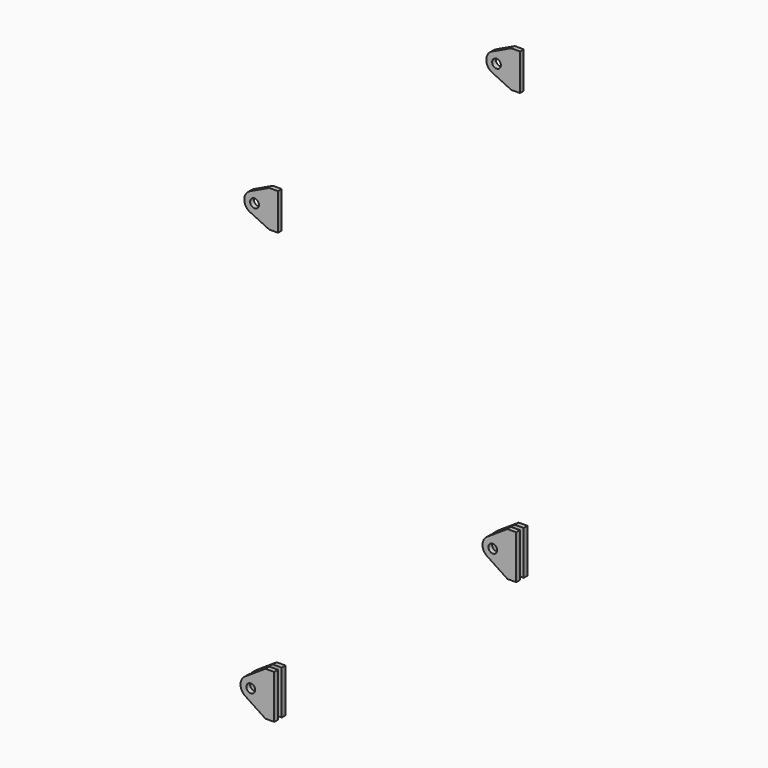
from build123d import *

# Parameters (mm, degrees)
SKETCH008_W      = 150
SKETCH008_H      = 16
EXTRUDE007_DEPTH = 150
SKETCH007_R      = 15
PAD_DEPTH        = 24
SKETCH009_R      = 15
EXTRUDE_DEPTH    = 8


with BuildPart() as extrude007:
    # Sketch008 → Extrude007 (new body)
    with BuildSketch(Plane(origin=(0, 0, 0), x_dir=(1, 0, 0), z_dir=(0, 0, -1))):
        with Locations((975, 0)):
            Rectangle(SKETCH008_W, SKETCH008_H)
    extrude(amount=-EXTRUDE007_DEPTH)


with BuildPart() as cut001:
    # Sketch007 → Pad (new body, symmetric)
    with BuildSketch(Plane.XZ):
        with BuildLine():
            Line((900, 0), (900, 150))
            Line((900, 150), (930, 150))
            Line((930, 150), (999.298323, 104.198882))
            ThreePointArc((999.298323, 45.801118), (1015, 75), (999.298323, 104.198882))
            Line((999.298323, 45.801118), (930, 0))
            Line((930, 0), (900, 0))
        make_face()
        with Locations((980, 75)):
            Circle(SKETCH007_R, mode=Mode.SUBTRACT)
    extrude(amount=PAD_DEPTH, both=True)

    # Cut001: cut Extrude007
    add(extrude007.part, mode=Mode.SUBTRACT)


with BuildPart() as cut001_1:
    # Cut001 placement: moved
    add(cut001.part.moved(Location((0, -516, 0))))


with BuildPart() as compound004:
    # Mirror006: instance of Cut001
    add(cut001_1.part.mirror(Plane(origin=(0, 0, 400), x_dir=(-1, 0, 0), z_dir=(0, -1, 0))))

    # Compound004: union Cut001
    add(cut001_1.part)


with BuildPart() as extrude_body:
    # Sketch009 → Extrude (new body, symmetric)
    with BuildSketch(Plane.XZ):
        with BuildLine():
            Line((900, 1462.5), (900, 1587.5))
            Line((900, 1587.5), (930, 1587.5))
            Line((930, 1587.5), (995.017868, 1556.614295))
            ThreePointArc((995.017868, 1493.385705), (1015, 1525), (995.017868, 1556.614295))
            Line((995.017868, 1493.385705), (930, 1462.5))
            Line((930, 1462.5), (900, 1462.5))
        make_face()
        with Locations((980, 1525)):
            Circle(SKETCH009_R, mode=Mode.SUBTRACT)
    extrude(amount=EXTRUDE_DEPTH, both=True)


with BuildPart() as extrude_body_1:
    # Extrude placement: moved
    add(extrude_body.part.moved(Location((0, -516, 0))))


with BuildPart() as compound006:
    # Mirror: instance of Extrude body
    add(extrude_body_1.part.mirror(Plane(origin=(0, 0, 1500), x_dir=(1, 0, 0), z_dir=(0, 1, 0))))

    # Compound005: union Extrude body
    add(extrude_body_1.part)

    # Compound006: union Compound004
    add(compound004.part)


with BuildPart() as compound006_mirrored:
    # Mirror007: instance of Compound006
    add(compound006.part.mirror(Plane(origin=(0, 0, -1000), x_dir=(0, -1, 0), z_dir=(1, 0, 0))))


solid = compound006_mirrored.part
